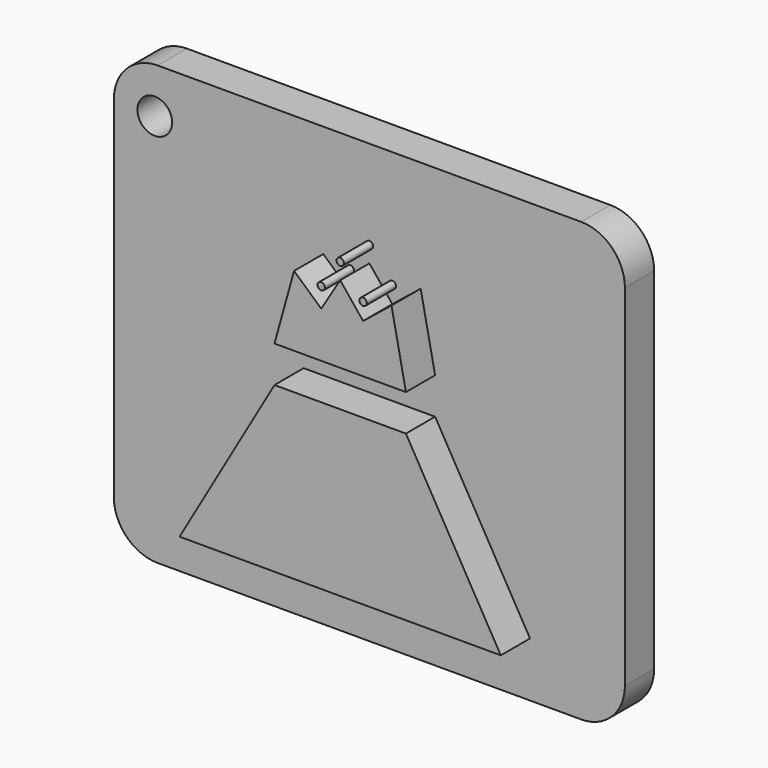
from build123d import *

# Parameters (mm, degrees)
F0_W     = 35
F0_H     = 30
F0_R     = 1.188623
F1_DEPTH = 2.5
F2_R     = 0.251874
F3_DEPTH = 2.5
F4_R     = 3


with BuildPart() as f1:
    # F0 (on Front) → F1 (new body)
    with BuildSketch(Plane.XZ):
        Rectangle(F0_W, F0_H)
        with Locations((-14.699375, 11.879263)):
            Circle(F0_R, mode=Mode.SUBTRACT)
    extrude(amount=-F1_DEPTH)

    # F4
    f4_edges = [f1.edges().sort_by_distance(p)[0] for p in [
        (17.5, 1.25, 15),
        (-17.5, 1.25, 15),
        (-17.5, 1.25, -15),
        (17.5, 1.25, -15),
    ]]
    fillet(f4_edges, radius=F4_R)


with BuildPart() as f3:
    # F2 (on Front) → F3 (new body)
    with BuildSketch(Plane.XZ):
        Polygon((-4.5, 0), (-11, -11.25833), (11, -11.25833), (4.5, 0), align=None)
        Polygon((-4.5, 2.5), (4.5, 2.5), (3.515135, 7.402045), (1.567945, 5.8341), (0, 7.78129), (-1.300305, 5.64606), (-3.159824, 7.317045), align=None)
        with Locations((0, 8.889182)):
            Circle(F2_R)
        with Locations((-1.300305, 6.994669)):
            Circle(F2_R)
        with Locations((1.567945, 6.994669)):
            Circle(F2_R)
    extrude(amount=F3_DEPTH)


solid = Compound([f1.part, f3.part])
